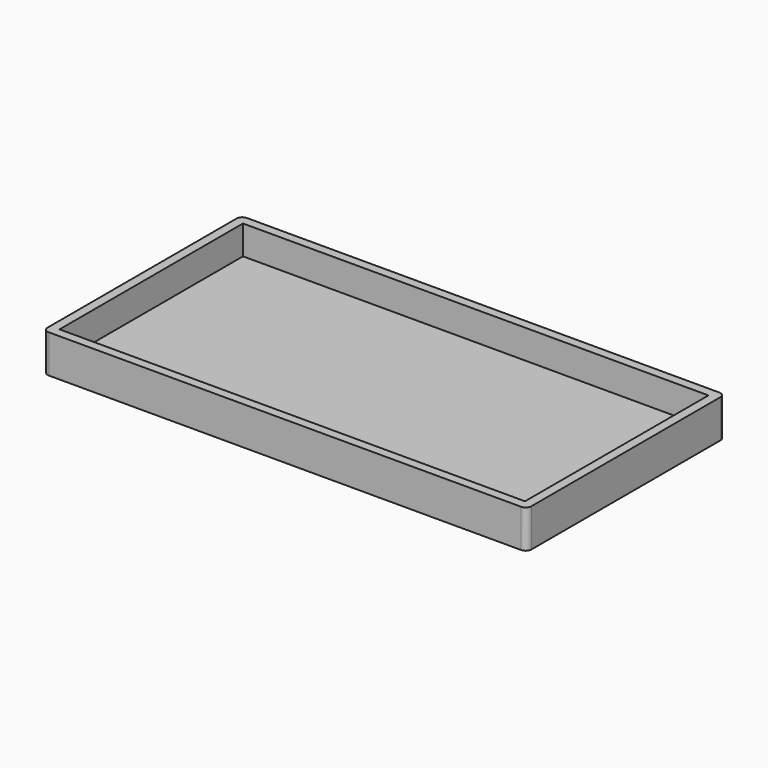
from build123d import *

# Parameters (mm, degrees)
F1_W     = 127
F1_H     = 65
F1_W_2   = 122.2
F1_H_2   = 60.2
F2_DEPTH = 10
F3_DEPTH = 2.4
F4_R     = 1.5


with BuildPart() as f2:
    # F1 (on Top) → F2 (new body)
    with BuildSketch(Plane.XY):
        Rectangle(F1_W, F1_H)
        Rectangle(F1_W_2, F1_H_2, mode=Mode.SUBTRACT)
    extrude(amount=F2_DEPTH)

    # F1 (on Top) → F3 (join)
    with BuildSketch(Plane.XY):
        Rectangle(F1_W_2, F1_H_2)
    extrude(amount=F3_DEPTH)

    # F4
    f4_edges = [f2.edges().sort_by_distance(p)[0] for p in [
        (63.5, -32.5, 5),
        (63.5, 32.5, 5),
        (-63.5, 32.5, 5),
        (-63.5, -32.5, 5),
    ]]
    fillet(f4_edges, radius=F4_R)


solid = f2.part
